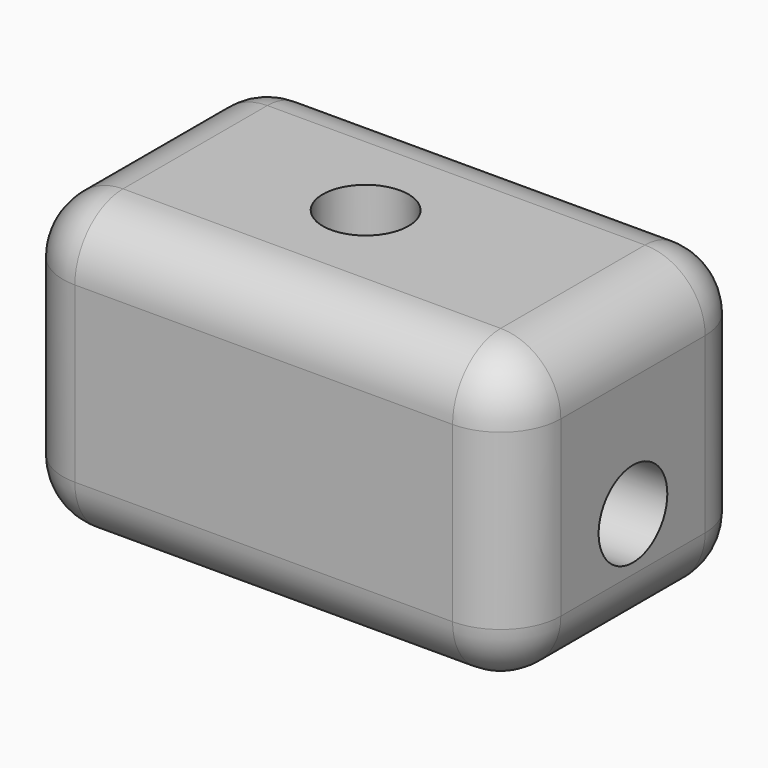
from build123d import *

# Parameters (mm, degrees)
F0_W     = 41.4018779993
F0_H     = 24.4389437139
F1_DEPTH = 25
F4_R     = 3.5686331082
F6_R     = 5


with BuildPart() as f1:
    # F0 (on Front) → F1 (new body)
    with BuildSketch(Plane.XZ):
        with Locations((20.7009389997, 12.219471857)):
            Rectangle(F0_W, F0_H)
    extrude(amount=F1_DEPTH)

    # F5: sweep along a path in F3
    with BuildLine(Plane.XZ.offset(12.5)) as f5_path:
        Line((19.1687617356, 24.4389437139), (19.1687617356, 16.1529793682))
        ThreePointArc((19.1687617356, 16.1529793682), (21.1352572497, 11.4054392279), (25.88279739, 9.4389437139))
        Line((25.88279739, 9.4389437139), (41.4018779993, 9.4389437139))
    # F4 (on face) → F5 (sweep, cut)
    with BuildSketch(Plane.YZ.offset(41.4018779993)):
        with Locations((-12.5, 9.4434265047)):
            Circle(F4_R)
    sweep(path=f5_path.line, mode=Mode.SUBTRACT)

    # F6
    f6_edges = [f1.edges().sort_by_distance(p)[0] for p in [
        (41.401878, 0, 12.219472),
        (20.700939, 0, 24.438944),
        (0, 0, 12.219472),
        (20.700939, 0, 0),
        (41.401878, -25, 12.219472),
        (20.700939, -25, 24.438944),
        (0, -25, 12.219472),
        (20.700939, -25, 0),
        (41.401878, -12.5, 0),
        (0, -12.5, 0),
        (41.401878, -12.5, 24.438944),
        (0, -12.5, 24.438944),
    ]]
    fillet(f6_edges, radius=F6_R)


solid = f1.part
